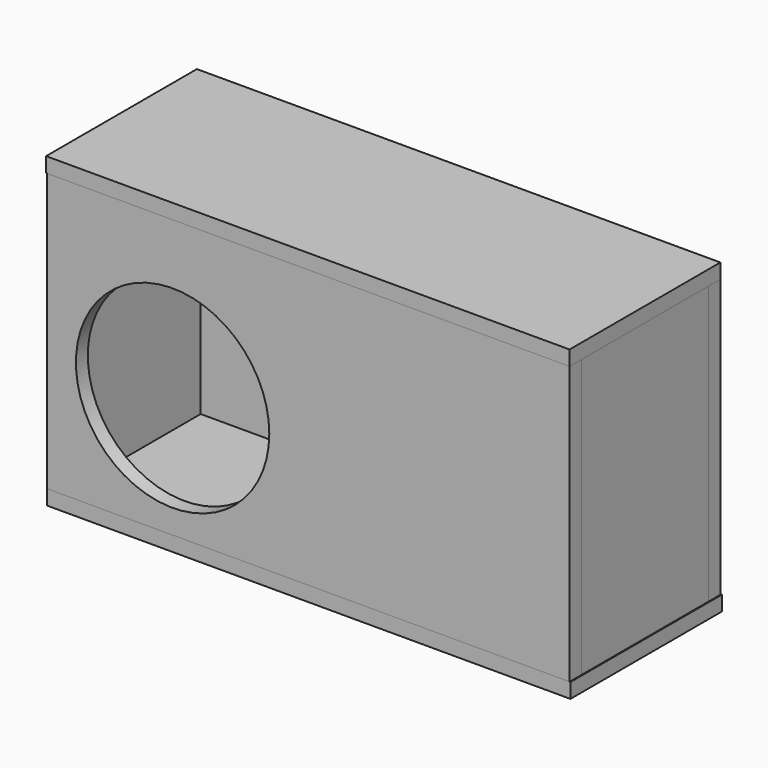
from build123d import *

# Parameters (mm, degrees)
F0_W      = 669.364716
F0_H      = 355.6
F0_R      = 123.825
F1_DEPTH  = 19.05
F2_W      = 203.2
F2_H      = 355.6
F3_DEPTH  = 19.05
F4_W      = 203.2
F4_H      = 355.6
F5_DEPTH  = 19.05
F6_W      = 668.690813
F6_H      = 355.6
F7_DEPTH  = 19.05
F8_W      = 670.426292
F8_H      = 242.48494
F9_DEPTH  = 19.05
F10_W     = 670.402688
F10_H     = 241.414734
F11_DEPTH = 19.05


with BuildPart() as f1:
    # F0 (on Front) → F1 (new body)
    with BuildSketch(Plane.XZ):
        Rectangle(F0_W, F0_H)
        with Locations((-173.777369, -23.33122)):
            Circle(F0_R, mode=Mode.SUBTRACT)
    extrude(amount=F1_DEPTH)


with BuildPart() as f3:
    # F2 (on face) → F3 (new body)
    with BuildSketch(Plane.YZ.offset(334.682358)):
        with Locations((101.6, 0)):
            Rectangle(F2_W, F2_H)
    extrude(amount=-F3_DEPTH)


with BuildPart() as f5:
    # F4 (on face) → F5 (new body)
    with BuildSketch(Plane(origin=(-334.682358, 0, 0), x_dir=(0, -1, 0), z_dir=(-1, 0, 0))):
        with Locations((-101.6, 0)):
            Rectangle(F4_W, F4_H)
    extrude(amount=-F5_DEPTH)


with BuildPart() as f7:
    # F6 (on face) → F7 (new body)
    with BuildSketch(Plane(origin=(0, 203.2, 0), x_dir=(-1, 0, 0), z_dir=(0, 1, 0))):
        with Locations((-0.336951, 0)):
            Rectangle(F6_W, F6_H)
    extrude(amount=F7_DEPTH)


with BuildPart() as f9:
    # F8 (on face) → F9 (new body)
    with BuildSketch(Plane(origin=(0, 0, -177.8), x_dir=(1, 0, 0), z_dir=(0, 0, -1))):
        with Locations((0.530788, -102.19247)):
            Rectangle(F8_W, F8_H)
    extrude(amount=F9_DEPTH)


with BuildPart() as f11:
    # F10 (on face) → F11 (new body)
    with BuildSketch(Plane.XY.offset(177.8)):
        with Locations((-0.518986, 101.542633)):
            Rectangle(F10_W, F10_H)
    extrude(amount=F11_DEPTH)


solid = Compound([f1.part, f3.part, f5.part, f7.part, f9.part, f11.part])
